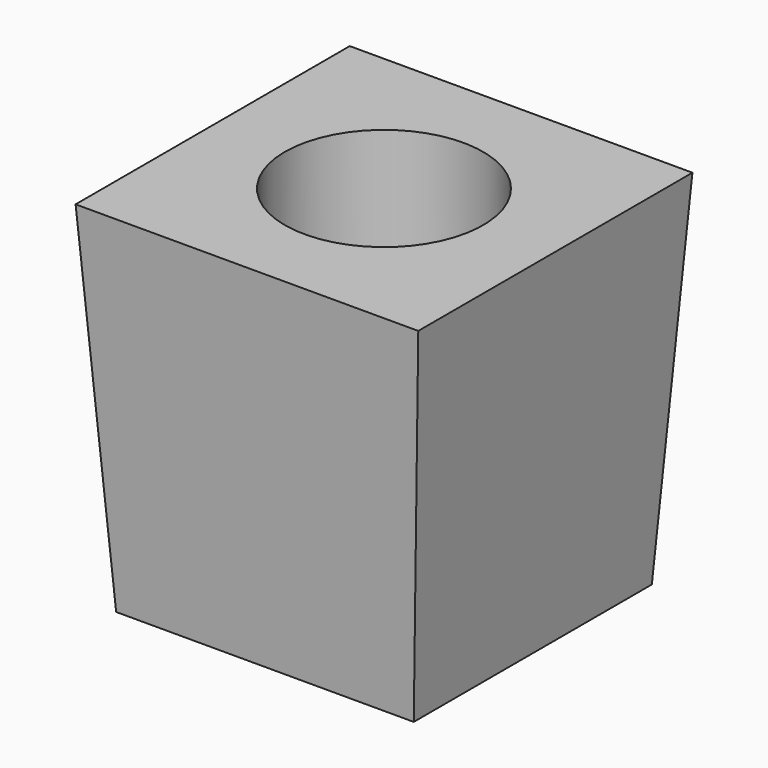
from build123d import *

# Parameters (mm, degrees)
F2_W = 38
F2_H = 38
F0_W = 33
F0_H = 33
F5_D = 22


with BuildPart() as f3:
    # F2 (on offset) → F3 section 0
    with BuildSketch(Plane.XY.offset(40)):
        Rectangle(F2_W, F2_H)
    # F0 (on Top) → F3 section 1
    with BuildSketch(Plane.XY):
        Rectangle(F0_W, F0_H)
    loft()

    # F5 (through all)
    with Locations(Plane.XY.offset(40)):
        with Locations((0, 0)):
            Hole(F5_D / 2)


solid = f3.part
